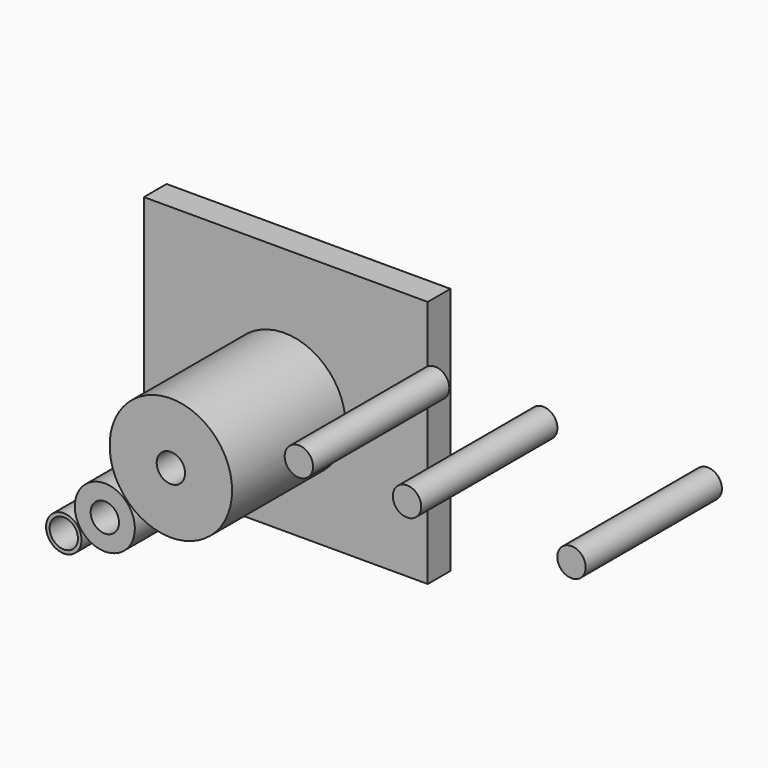
from build123d import *

# Parameters (mm, degrees)
F1_R     = 10.959745
F1_R_2   = 2.54
F2_DEPTH = 25.4
F1_R_3   = 5.374532
F3_DEPTH = 25.4
F1_R_4   = 3.175
F4_DEPTH = 25.4
F0_W     = 50.8
F0_H     = 44.45
F5_DEPTH = 5.08
F6_R     = 2.54
F7_DEPTH = 30.48
F8_DEPTH = 30.48
F9_DEPTH = 30.48


with BuildPart() as f2:
    # F1 (on Front) → F2 (new body)
    with BuildSketch(Plane.XZ):
        with Locations((-18.629057, -11.871674)):
            Circle(F1_R)
        with Locations((-18.629057, -11.871674)):
            Circle(F1_R_2, mode=Mode.SUBTRACT)
    extrude(amount=F2_DEPTH)


with BuildPart() as f3:
    # F1 (on Front) → F3 (new body)
    with BuildSketch(Plane.XZ):
        with Locations((-30.45081, -23.504406)):
            Circle(F1_R_3)
        with Locations((-30.45081, -23.504406)):
            Circle(F1_R_2, mode=Mode.SUBTRACT)
    extrude(amount=F3_DEPTH)


with BuildPart() as f4:
    # F1 (on Front) → F4 (new body)
    with BuildSketch(Plane.XZ):
        with Locations((-37.794903, -28.398743)):
            Circle(F1_R_4)
        with Locations((-37.794903, -28.398743)):
            Circle(F1_R_2, mode=Mode.SUBTRACT)
    extrude(amount=F4_DEPTH)


with BuildPart() as f5:
    # F0 (on Front) → F5 (new body)
    with BuildSketch(Plane.XZ):
        with Locations((-18.374677, -9.91119)):
            Rectangle(F0_W, F0_H)
    extrude(amount=-F5_DEPTH)


with BuildPart() as f7:
    # F6 (on Front) → F7 (new body)
    with BuildSketch(Plane.XZ):
        with Locations((8.345753, 0)):
            Circle(F6_R)
    extrude(amount=F7_DEPTH)


with BuildPart() as f8:
    # F6 (on Front) → F8 (new body)
    with BuildSketch(Plane.XZ):
        with Locations((27.695158, 0)):
            Circle(F6_R)
    extrude(amount=F8_DEPTH)


with BuildPart() as f9:
    # F6 (on Front) → F9 (new body)
    with BuildSketch(Plane.XZ):
        with Locations((57.136599, 0)):
            Circle(F6_R)
    extrude(amount=F9_DEPTH)


solid = Compound([f2.part, f3.part, f4.part, f5.part, f7.part, f8.part, f9.part])
